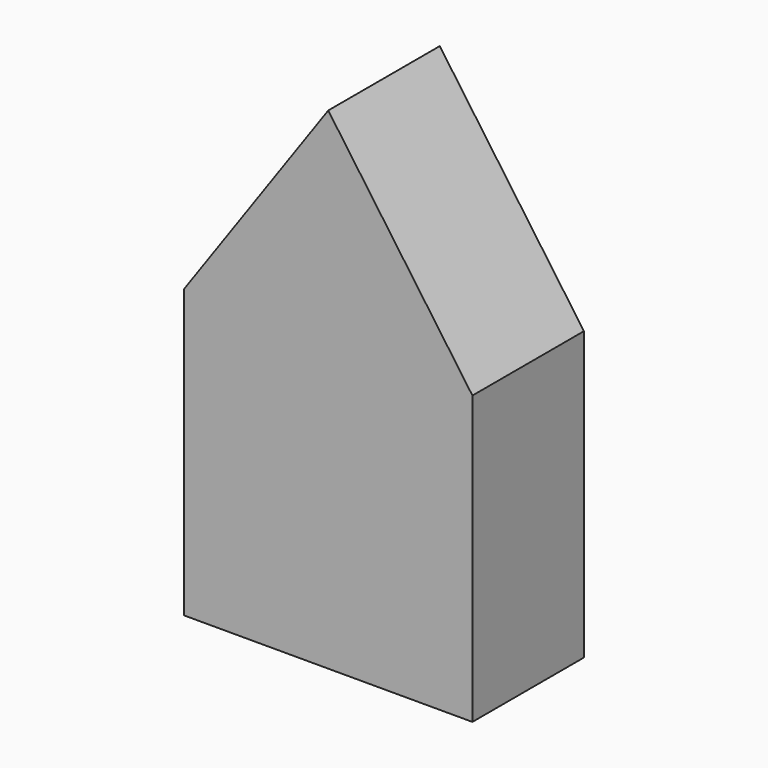
from build123d import *

# Parameters (mm, degrees)
F0_W     = 52.538685
F0_H     = 52.353366
F2_DEPTH = 25.4
F1_W     = 9.434705
F1_H     = 9.342208
F1_W_2   = 9.434706
F1_R     = 3.813753
F3_DEPTH = 1.778


with BuildPart() as f2:
    # F0 (on Front) → F2 (new body)
    with BuildSketch(Plane.XZ):
        with Locations((0.000164, -7.769757)):
            Rectangle(F0_W, F0_H)
        Polygon((0.000164, 55.590764), (-26.269179, 18.406926), (26.269506, 18.406926), align=None)
    extrude(amount=F2_DEPTH)

    # F1 (on Front) → F3 (join)
    with BuildSketch(Plane.XZ):
        with Locations((-16.002, 4.671104)):
            Rectangle(F1_W, F1_H)
        with Locations((14.522046, 4.671104)):
            Rectangle(F1_W_2, F1_H)
        with Locations((0, 30.616544)):
            Circle(F1_R)
    extrude(amount=-F3_DEPTH)


solid = f2.part
